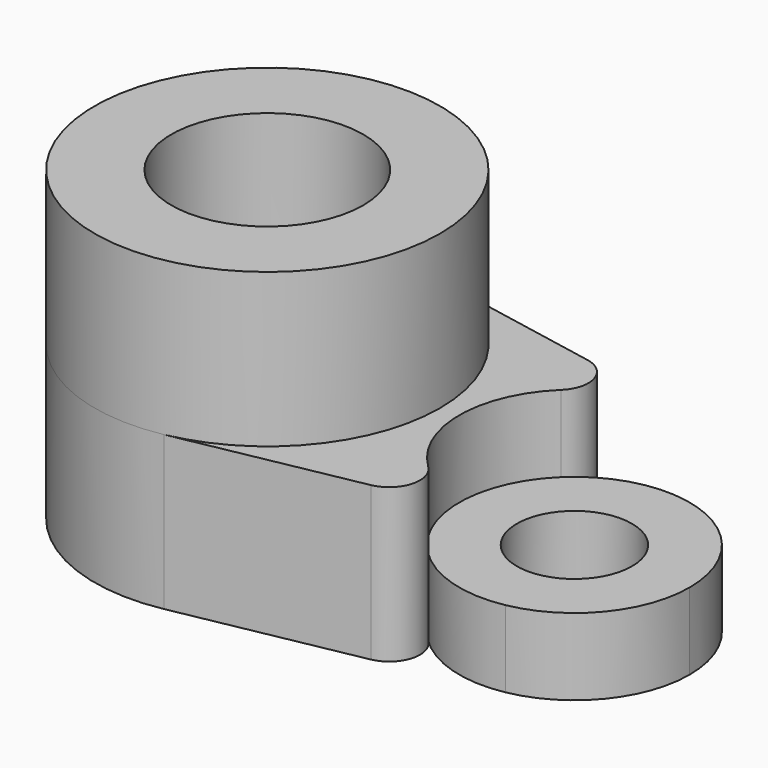
from build123d import *

# Parameters (mm, degrees)
F0_R        = 15.875
F1_DEPTH    = 25.4
F1_FACE_R   = 28.575
F1_FACE_R_2 = 15.875
F2_DEPTH    = 25.4
F0_R_2      = 9.525
F3_DEPTH    = 12.7
F4_DEPTH    = 25.4
F5_R        = 5.08


with BuildPart() as f1:
    # F0 (on Top) → F1 (new body)
    with BuildSketch(Plane.XY):
        with BuildLine():
            ThreePointArc((-23.2457928882, -28.0682110263), (-6.5850891214, -18.2130603251), (-0.0286053882, 0))
            ThreePointArc((-0.0286053882, 0), (-6.5850891214, 18.2130603251), (-23.2457928882, 28.0682110263))
            ThreePointArc((-23.2457928882, 28.0682110263), (-57.1786053882, 0), (-23.2457928882, -28.0682110263))
        make_face()
        with Locations((-28.6036053882, 0)):
            Circle(F0_R, mode=Mode.SUBTRACT)
    extrude(amount=F1_DEPTH)

    # F1_face (on face) → F2 (join)
    with BuildSketch(Plane(origin=(-28.6036053882, 0, 25.4), x_dir=(1, 0, 0), z_dir=(0, 0, 1))):
        Circle(F1_FACE_R)
        Circle(F1_FACE_R_2, mode=Mode.SUBTRACT)
    extrude(amount=F2_DEPTH)


with BuildPart() as f3:
    # F0 (on Top) → F3 (new body)
    with BuildSketch(Plane.XY):
        with BuildLine():
            ThreePointArc((41.2463946118, 0), (36.8754054564, 12.1420402167), (25.7682696118, 18.7121406842))
            ThreePointArc((25.7682696118, 18.7121406842), (3.1463946118, 0), (25.7682696118, -18.7121406842))
            ThreePointArc((25.7682696118, -18.7121406842), (36.8754054564, -12.1420402167), (41.2463946118, 0))
        make_face()
        with Locations((22.1963946118, 0)):
            Circle(F0_R_2, mode=Mode.SUBTRACT)
    extrude(amount=F3_DEPTH)


with BuildPart() as f4:
    # F0 (on Top) → F4 (new body)
    with BuildSketch(Plane.XY):
        with BuildLine():
            ThreePointArc((-23.2457928882, 28.0682110263), (-6.5850891214, 18.2130603251), (-0.0286053882, 0))
            ThreePointArc((-0.0286053882, 0), (-6.5850891214, -18.2130603251), (-23.2457928882, -28.0682110263))
            Line((-23.2457928882, -28.0682110263), (25.7682696118, -18.7121406842))
            ThreePointArc((25.7682696118, -18.7121406842), (3.1463946118, 0), (25.7682696118, 18.7121406842))
            Line((25.7682696118, 18.7121406842), (-23.2457928882, 28.0682110263))
        make_face()
    extrude(amount=F4_DEPTH)

    # F5
    f5_edges = [f4.edges().sort_by_distance(p)[0] for p in [
        (25.76827, -18.712141, 12.7),
        (25.76827, 18.712141, 12.7),
    ]]
    fillet(f5_edges, radius=F5_R)


solid = Compound([f1.part, f3.part, f4.part])
